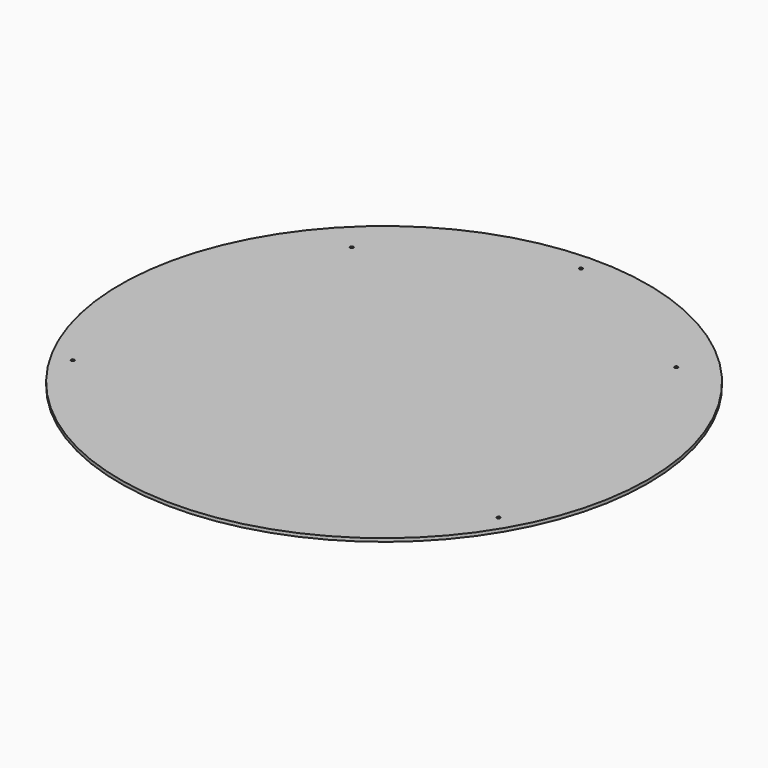
from build123d import *

# Parameters (mm, degrees)
F0_R     = 80.5
F1_DEPTH = 1
F2_D     = 1
F2_DEPTH = 7
F2_TIP   = 0.3004303095


with BuildPart() as f1:
    # F0 (on Top) → F1 (new body)
    with BuildSketch(Plane.XY):
        Circle(F0_R)
        Polygon((0, 0), (64.9519052838, -37.5), (-64.9519052838, -37.5), align=None, mode=Mode.SUBTRACT)
        Polygon((-64.9519052838, -37.5), (64.9519052838, -37.5), (0, 0), align=None)
    extrude(amount=F1_DEPTH)

    # F2
    with Locations(Plane(origin=(0, 0, 0), x_dir=(1, 0, 0), z_dir=(0, 0, -1))):
        with Locations((-49.4770742953, -49.5), (49.5229257047, -49.5), (0, -75), (-64.9519052838, 37.5), (64.9519052838, 37.5)):
            Hole(F2_D / 2, depth=F2_DEPTH)
            with Locations((0, 0, -(F2_DEPTH + F2_TIP / 2))):  # 118° drill point
                Cone(0, F2_D / 2, F2_TIP, mode=Mode.SUBTRACT)


solid = f1.part
